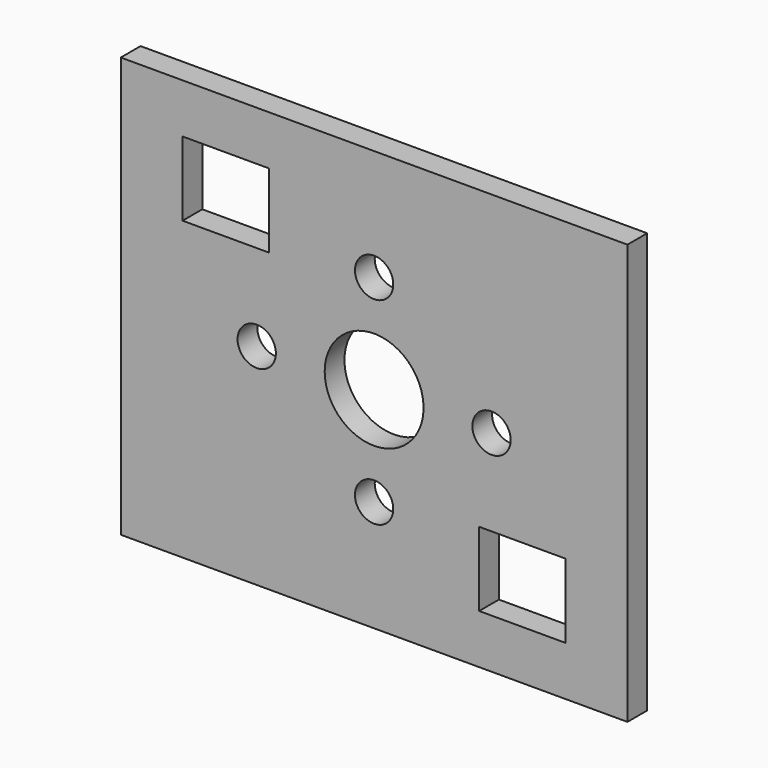
from build123d import *

# Parameters (mm, degrees)
F0_W     = 41
F0_H     = 90
F1_DEPTH = 34
F2_W     = 35
F2_H     = 29
F3_DEPTH = 86
F4_W     = 7
F4_H     = 6
F4_R     = 4
F4_R_2   = 1.55
F5_DEPTH = 4
F6_DEPTH = 86
F7_DEPTH = 2


with BuildPart() as f1:
    # F0 (on Top) → F1 (new body)
    with BuildSketch(Plane.XY):
        with Locations((-1.7023412511, 4.193077401)):
            Rectangle(F0_W, F0_H)
    extrude(amount=F1_DEPTH)

    # F2 (on face) → F3 (cut)
    with BuildSketch(Plane.XZ.offset(40.806922599)):
        with Locations((-1.7023412511, 17)):
            Rectangle(F2_W, F2_H)
    extrude(amount=-F3_DEPTH, mode=Mode.SUBTRACT)

    # F4 (on face) → F5 (cut, through all)
    with BuildSketch(Plane(origin=(0, 49.193077401, 0), x_dir=(-1, 0, 0), z_dir=(0, 1, 0))):
        with Locations((-10.2976587489, 7)):
            Rectangle(F4_W, F4_H)
        with Locations((1.7023412511, 17)):
            Circle(F4_R)
        with Locations((13.7023412511, 27)):
            Rectangle(F4_W, F4_H)
        with Locations((11.2023412511, 17)):
            Circle(F4_R_2)
        with Locations((-7.7976587489, 17)):
            Circle(F4_R_2)
        with Locations((1.7023412511, 25)):
            Circle(F4_R_2)
        with Locations((1.7023412511, 9)):
            Circle(F4_R_2)
    extrude(amount=-F5_DEPTH, mode=Mode.SUBTRACT)

    # F6 (cut): a face of the model
    f6_faces = [f1.faces().sort_by_distance(p)[0] for p in [
        (-21.6697062917, -40.806922599, 17),
    ]]
    extrude(f6_faces, amount=-F6_DEPTH, mode=Mode.SUBTRACT)

    # F7 (cut): a face of the model
    f7_faces = [f1.faces().sort_by_distance(p)[0] for p in [
        (-21.6697062917, 45.193077401, 17),
    ]]
    extrude(f7_faces, amount=-F7_DEPTH, mode=Mode.SUBTRACT)


solid = f1.part
